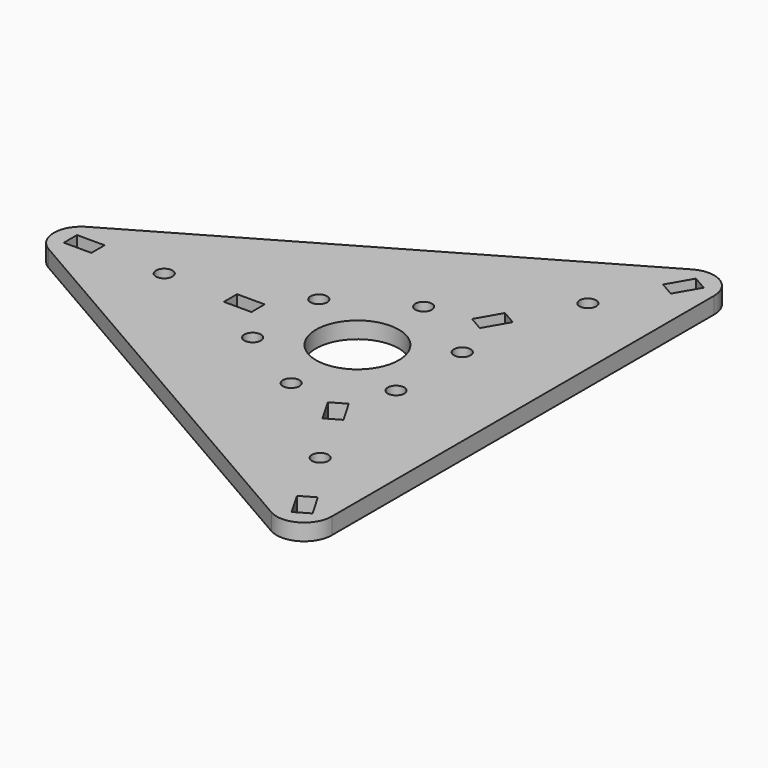
from build123d import *

# Parameters (mm, degrees)
F0_W     = 5
F0_H     = 3
F0_R     = 1.5
F0_R_2   = 7.5
F1_DEPTH = 1.5


with BuildPart() as f1:
    # F0 (on Top) → F1 (new body, symmetric)
    with BuildSketch(Plane.XY):
        with BuildLine():
            Line((22.5, 47.631397), (-52.5, 4.330127))
            ThreePointArc((-52.5, 4.330127), (-55, 0), (-52.5, -4.330127))
            Line((-52.5, -4.330127), (22.5, -47.631397))
            ThreePointArc((22.5, -47.631397), (27.5, -47.631397), (30, -43.30127))
            Line((30, -43.30127), (30, 43.30127))
            ThreePointArc((30, 43.30127), (27.5, 47.631397), (22.5, 47.631397))
        make_face()
        with Locations((-49.5, 0)):
            Rectangle(F0_W, F0_H, mode=Mode.SUBTRACT)
        with Locations((-35, 0)):
            Circle(F0_R, mode=Mode.SUBTRACT)
        with Locations((-12.990381, -7.5)):
            Circle(F0_R, mode=Mode.SUBTRACT)
        with Locations((-20.5, 0)):
            Rectangle(F0_W, F0_H, mode=Mode.SUBTRACT)
        Polygon((22.200962, -41.453194), (24.799038, -39.953194), (27.299038, -44.283321), (24.700962, -45.783321), align=None, mode=Mode.SUBTRACT)
        with Locations((17.5, -30.310889)):
            Circle(F0_R, mode=Mode.SUBTRACT)
        with Locations((0, -15)):
            Circle(F0_R, mode=Mode.SUBTRACT)
        Circle(F0_R_2, mode=Mode.SUBTRACT)
        Polygon((10.200962, -20.668584), (7.700962, -16.338457), (10.299038, -14.838457), (12.799038, -19.168584), align=None, mode=Mode.SUBTRACT)
        with Locations((12.990381, -7.5)):
            Circle(F0_R, mode=Mode.SUBTRACT)
        with Locations((-12.990381, 7.5)):
            Circle(F0_R, mode=Mode.SUBTRACT)
        with Locations((0, 15)):
            Circle(F0_R, mode=Mode.SUBTRACT)
        with Locations((12.990381, 7.5)):
            Circle(F0_R, mode=Mode.SUBTRACT)
        Polygon((12.799038, 19.168584), (10.299038, 14.838457), (7.700962, 16.338457), (10.200962, 20.668584), align=None, mode=Mode.SUBTRACT)
        with Locations((17.5, 30.310889)):
            Circle(F0_R, mode=Mode.SUBTRACT)
        Polygon((24.799038, 39.953194), (22.200962, 41.453194), (24.700962, 45.783321), (27.299038, 44.283321), align=None, mode=Mode.SUBTRACT)
    extrude(amount=F1_DEPTH, both=True)


solid = f1.part
